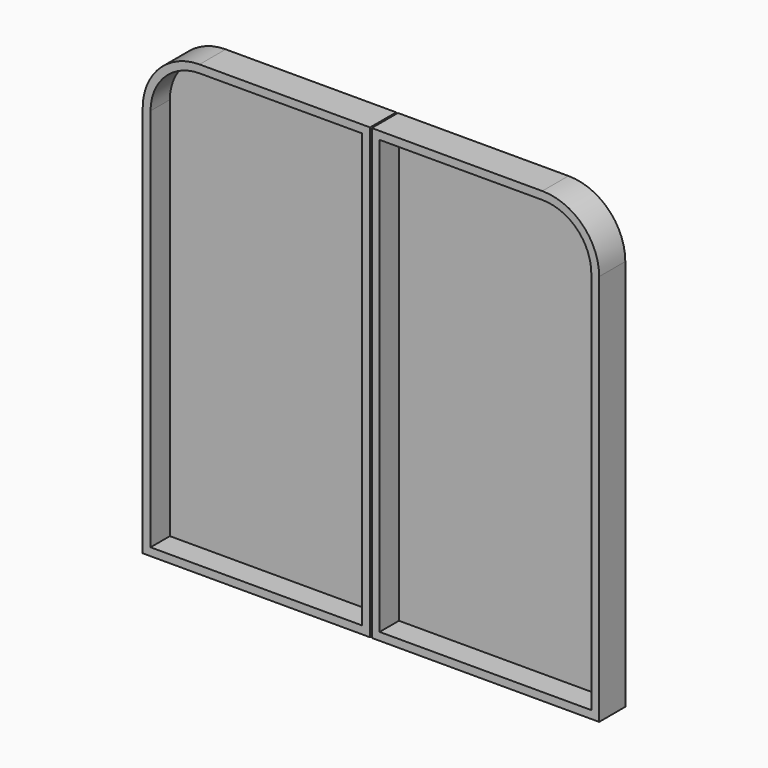
from build123d import *

# Parameters (mm, degrees)
F1_DEPTH = 50
F3_DEPTH = 37


with BuildPart() as f1:
    # F0 (on Front) → F1 (new body)
    with BuildSketch(Plane.XZ):
        with BuildLine():
            Line((-1.3, 343.5), (-262.3, 343.5))
            ThreePointArc((-262.3, 343.5), (-323.81829, 318.01829), (-349.3, 256.5))
            Line((-349.3, 256.5), (-349.3, -343.5))
            Line((-349.3, -343.5), (-1.3, -343.5))
            Line((-1.3, -343.5), (-1.3, 343.5))
        make_face()
    extrude(amount=F1_DEPTH)

    # F2 (on face) → F3 (cut)
    with BuildSketch(Plane.XZ.offset(50)):
        with BuildLine():
            Line((-13.3, 331.5), (-262.3, 331.5))
            ThreePointArc((-262.3, 331.5), (-315.333009, 309.533009), (-337.3, 256.5))
            Line((-337.3, 256.5), (-337.3, -331.5))
            Line((-337.3, -331.5), (-13.3, -331.5))
            Line((-13.3, -331.5), (-13.3, 331.5))
        make_face()
    extrude(amount=-F3_DEPTH, mode=Mode.SUBTRACT)


with BuildPart() as f4_1:
    # F4: instance of F1
    add(f1.part.mirror(Plane.YZ))


solid = Compound([f1.part, f4_1.part])
